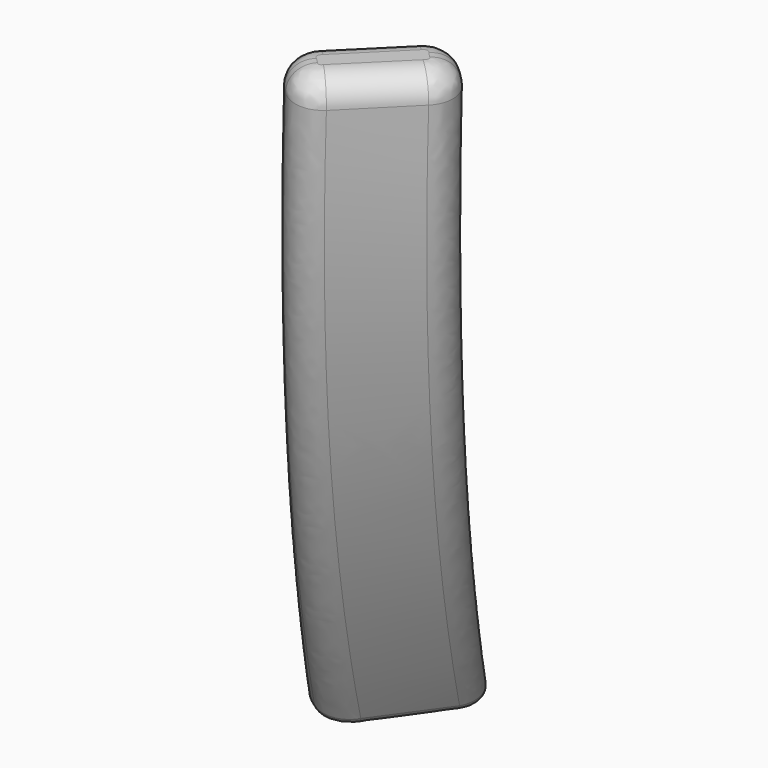
from build123d import *

# Parameters (mm, degrees)
FILLET_R    = 2
FILLET001_R = 1


with BuildPart() as part:
    # Face → Loft section 0
    with BuildSketch(Plane(origin=(21.356726, -19.596267, 81.5), x_dir=(0, 1, 0), z_dir=(0, 0, 1))):
        with BuildLine():
            Line((-4.150954, 0.364537), (0.364537, -4.150954))
            ThreePointArc((0.364537, -4.150954), (2.000644, -4.828652), (3.636751, -4.150954))
            Line((3.636751, -4.150954), (4.150954, -3.636751))
            ThreePointArc((4.150954, -3.636751), (4.828652, -2.000644), (4.150954, -0.364537))
            Line((4.150954, -0.364537), (-0.364537, 4.150954))
            ThreePointArc((-0.364537, 4.150954), (-2.000644, 4.828652), (-3.636751, 4.150954))
            Line((-3.636751, 4.150954), (-4.150954, 3.636751))
            ThreePointArc((-4.150954, 3.636751), (-4.828652, 2.000644), (-4.150954, 0.364537))
        make_face()
    # Face001 → Loft section 1
    with BuildSketch(Plane(origin=(19.056593, -16.815547, 59), x_dir=(0, 1, 0), z_dir=(0, 0, 1))):
        with BuildLine():
            Line((-4.150954, 0.364537), (0.364537, -4.150954))
            ThreePointArc((0.364537, -4.150954), (2.000644, -4.828652), (3.636751, -4.150954))
            Line((3.636751, -4.150954), (4.150954, -3.636751))
            ThreePointArc((4.150954, -3.636751), (4.828652, -2.000644), (4.150954, -0.364537))
            Line((4.150954, -0.364537), (-0.364537, 4.150954))
            ThreePointArc((-0.364537, 4.150954), (-2.000644, 4.828652), (-3.636751, 4.150954))
            Line((-3.636751, 4.150954), (-4.150954, 3.636751))
            ThreePointArc((-4.150954, 3.636751), (-4.828652, 2.000644), (-4.150954, 0.364537))
        make_face()
    # Face002 → Loft section 2
    with BuildSketch(Plane(origin=(12.164699, -5.58511, 28), x_dir=(0, 1, 0), z_dir=(0, 0, 1))):
        with BuildLine():
            Line((-4.151193, -0.361807), (1.079805, -4.024591))
            ThreePointArc((1.079805, -4.024591), (2.808736, -4.407886), (4.302306, -3.456377))
            Line((4.302306, -3.456377), (4.719407, -2.860695))
            ThreePointArc((4.719407, -2.860695), (5.102702, -1.131763), (4.151193, 0.361807))
            Line((4.151193, 0.361807), (-1.079805, 4.024591))
            ThreePointArc((-1.079805, 4.024591), (-2.808736, 4.407886), (-4.302306, 3.456377))
            Line((-4.302306, 3.456377), (-4.719407, 2.860695))
            ThreePointArc((-4.719407, 2.860695), (-5.102702, 1.131763), (-4.151193, -0.361807))
        make_face()
    loft()

    # Fillet
    fillet_edges = [part.edges().sort_by_distance(p)[0] for p in [
        (23.249934, -21.489475, 81.5),
    ]]
    fillet(fillet_edges, radius=FILLET_R)

    # Fillet001
    fillet001_edges = [part.edges().sort_by_distance(p)[0] for p in [
        (14.357898, -7.120804, 28),
    ]]
    fillet(fillet001_edges, radius=FILLET001_R)


solid = part.part
